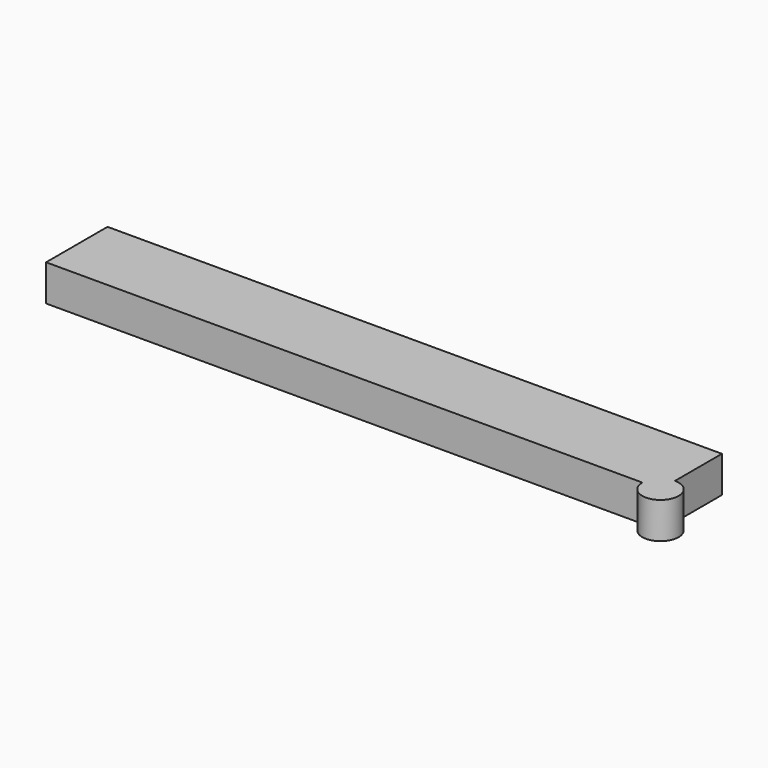
from build123d import *

# Parameters (mm, degrees)
F0_W     = 101.6
F0_H     = 12.7
F1_DEPTH = 6
F2_R     = 3
F3_DEPTH = 6


with BuildPart() as f1:
    # F0 (on Top) → F1 (new body)
    with BuildSketch(Plane.XY):
        with Locations((-50.8, 6.35)):
            Rectangle(F0_W, F0_H)
    extrude(amount=F1_DEPTH)

    # F2 (on Top) → F3 (join)
    with BuildSketch(Plane.XY):
        Circle(F2_R)
    extrude(amount=F3_DEPTH)


solid = f1.part
